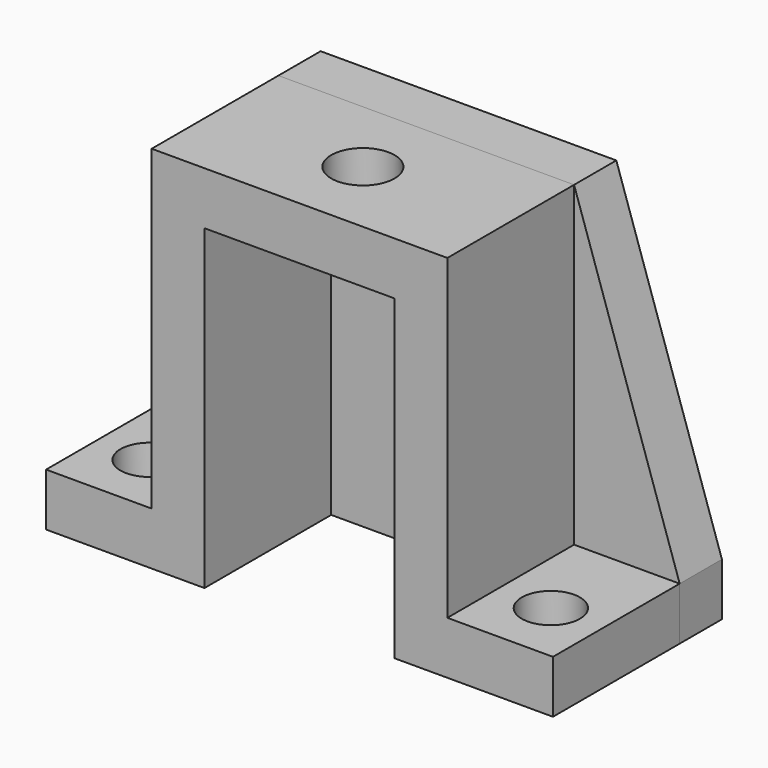
from build123d import *

# Parameters (mm, degrees)
F1_DEPTH  = 30
F3_DEPTH  = 10
F4_W      = 36
F4_H      = 60
F5_DEPTH  = 10
F6_R      = 5.5
F7_DEPTH  = 25
F9_DEPTH  = 10
F10_R     = 5.5
F11_DEPTH = 25
F12_R     = 6
F13_DEPTH = 25


with BuildPart() as f1:
    # F0 (on Front) → F1 (new body)
    with BuildSketch(Plane.XZ):
        Polygon((-28, -10), (-48, -10), (-48, -20), (-18, -20), (-18, 40), (18, 40), (18, -20), (48, -20), (48, -10), (28, -10), (28, 50), (-28, 50), align=None)
    extrude(amount=F1_DEPTH)

    # F2 (on face) → F3 (join)
    with BuildSketch(Plane(origin=(0, 0, 0), x_dir=(-1, 0, 0), z_dir=(0, 1, 0))):
        Polygon((-28, -10), (-28, 50), (-48, -10), align=None)
        Polygon((48, -10), (28, 50), (28, -10), align=None)
    extrude(amount=F3_DEPTH)

    # F6 (on face) → F7 (cut)
    with BuildSketch(Plane.XY.offset(-10)):
        with Locations((-38, -18)):
            Circle(F6_R)
    extrude(amount=-F7_DEPTH, mode=Mode.SUBTRACT)

    # F10 (on face) → F11 (cut)
    with BuildSketch(Plane.XY.offset(-10)):
        with Locations((38, -18)):
            Circle(F10_R)
    extrude(amount=-F11_DEPTH, mode=Mode.SUBTRACT)

    # F12 (on face) → F13 (cut)
    with BuildSketch(Plane.XY.offset(50)):
        with Locations((0, -15)):
            Circle(F12_R)
    extrude(amount=-F13_DEPTH, mode=Mode.SUBTRACT)


with BuildPart() as f5:
    # F4 (on face) → F5 (new body)
    with BuildSketch(Plane(origin=(0, 0, 0), x_dir=(-1, 0, 0), z_dir=(0, 1, 0))):
        with Locations((0, 10)):
            Rectangle(F4_W, F4_H)
    extrude(amount=F5_DEPTH)


with BuildPart() as f9:
    # F8 (on face) → F9 (new body)
    with BuildSketch(Plane(origin=(0, 0, 0), x_dir=(-1, 0, 0), z_dir=(0, 1, 0))):
        Polygon((28, 50), (-28, 50), (-28, -10), (-48, -10), (-48, -20), (-18, -20), (-18, 40), (18, 40), (18, -20), (48, -20), (48, -10), (28, -10), align=None)
    extrude(amount=F9_DEPTH)


solid = Compound([f1.part, f5.part, f9.part])
